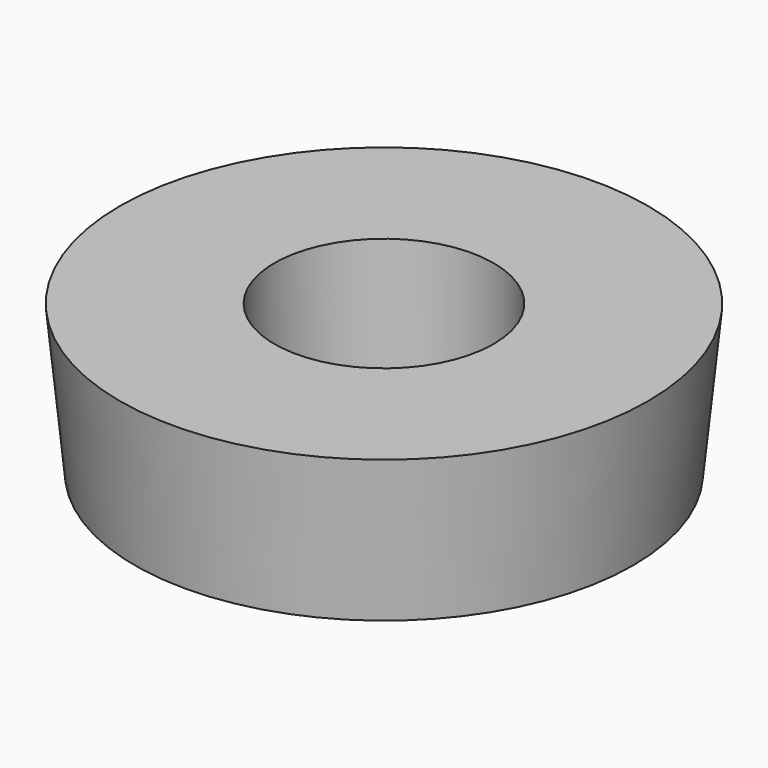
from build123d import *

# Parameters (mm, degrees)
F0_R     = 25
F2_R     = 26.5
F4_R     = 11
F5_DEPTH = 13
F6_R     = 7.5
F7_DEPTH = 25


with BuildPart() as f3:
    # F0 (on Top) → F3 section 0
    with BuildSketch(Plane.XY):
        Circle(F0_R)
    # F2 (on offset) → F3 section 1
    with BuildSketch(Plane.XY.offset(15)):
        Circle(F2_R)
    loft()

    # F4 (on face) → F5 (cut)
    with BuildSketch(Plane.XY.offset(15)):
        Circle(F4_R)
    extrude(amount=-F5_DEPTH, mode=Mode.SUBTRACT)

    # F6 (on face) → F7 (cut)
    with BuildSketch(Plane.XY.offset(2)):
        Circle(F6_R)
    extrude(amount=-F7_DEPTH, mode=Mode.SUBTRACT)


solid = f3.part
